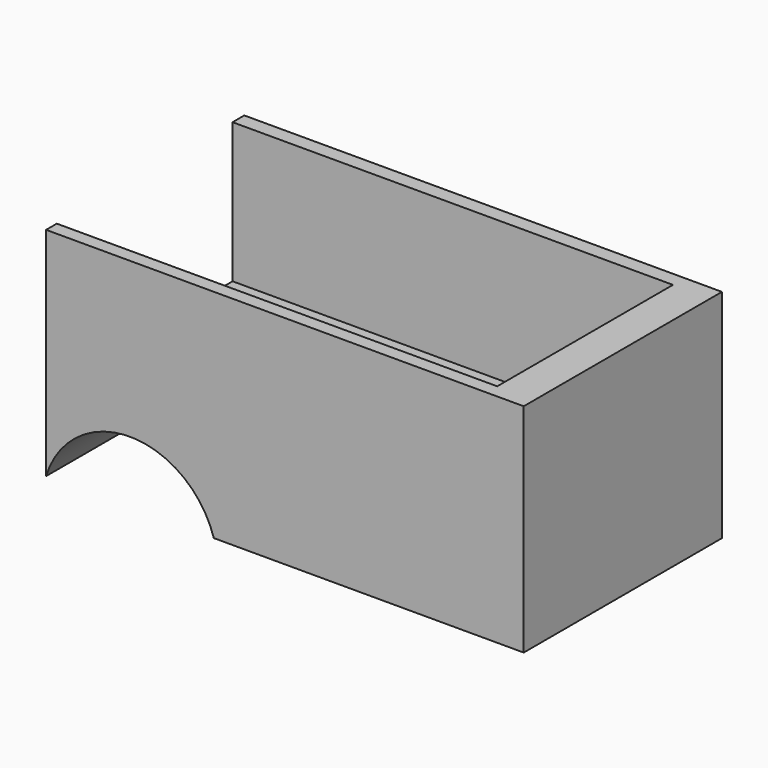
from build123d import *

# Parameters (mm, degrees)
F1_DEPTH = 50.8
F3_START = 15.748
F2_W     = 93.4371631593
F2_H     = 45.0471930671
F3_DEPTH = 50.038


with BuildPart() as f1:
    # F0 (on Front) → F1 (new body)
    with BuildSketch(Plane.XZ):
        with BuildLine():
            Line((-25.3583602607, 0), (38.1832793355, 0))
            Line((38.1832793355, 0), (38.1832793355, 44.4652916014))
            Line((38.1832793355, 44.4652916014), (-59.7524568439, 44.4652916014))
            Line((-59.7524568439, 44.4652916014), (-59.7524568439, 0))
            ThreePointArc((-59.7524568439, 0), (-42.5554085523, 12.7170080369), (-25.3583602607, 0))
        make_face()
    extrude(amount=F1_DEPTH)

    # F2 (on Top) → F3 (cut)
    with BuildSketch(Plane.XY.offset(F3_START)):
        with Locations((-16.1726111546, -25.5291428184)):
            Rectangle(F2_W, F2_H)
    extrude(amount=F3_DEPTH, mode=Mode.SUBTRACT)


solid = f1.part
